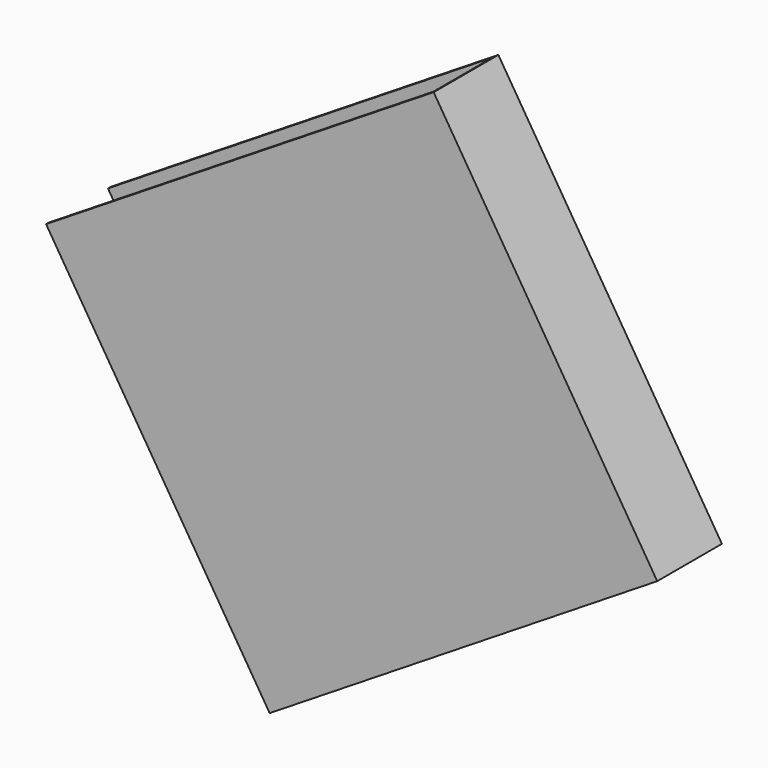
from build123d import *

# Parameters (mm, degrees)
BOX152_W               = 6
BOX152_H               = 6.45
BOX152_DEPTH           = 1.05
BOX151_W               = 6
BOX151_H               = 6.5
BOX151_DEPTH           = 1.15
CUT071_ROLL_ANGLE      = 90
CUT071_PITCH_ANGLE     = -58
CUT071_PLACEMENT_ANGLE = 180


with BuildPart() as small_cu_gnd_electrode062:
    # Box152 → Box152 (new body)
    with BuildSketch(Plane.XY.offset(0.05)):
        with Locations((3, 3.225)):
            Rectangle(BOX152_W, BOX152_H)
    extrude(amount=BOX152_DEPTH)


with BuildPart() as small_cu_electrode002_short_axis_gnd006:
    # Box151 → Box151 (new body)
    with BuildSketch(Plane.XY):
        with Locations((3, 3.25)):
            Rectangle(BOX151_W, BOX151_H)
    extrude(amount=BOX151_DEPTH)

    # Cut071: cut Small Cu GND Electrode062
    add(small_cu_gnd_electrode062.part, mode=Mode.SUBTRACT)


with BuildPart() as small_cu_electrode002_short_axis_gnd006_1:
    # Cut071 roll: moved
    add(small_cu_electrode002_short_axis_gnd006.part.rotate(Axis((0, 0, 0), (1, 0, 0)), CUT071_ROLL_ANGLE))


with BuildPart() as small_cu_electrode002_short_axis_gnd006_2:
    # Cut071 pitch: moved
    add(small_cu_electrode002_short_axis_gnd006_1.part.rotate(Axis((0, 0, 0), (0, 1, 0)), CUT071_PITCH_ANGLE))


with BuildPart() as small_cu_electrode002_short_axis_gnd006_3:
    # Cut071 placement: moved
    add(small_cu_electrode002_short_axis_gnd006_2.part.moved(Location((-6.250047, 2.74, 31.868858))).rotate(Axis((-6.250047, 2.74, 31.868858), (0, 0, 1)), CUT071_PLACEMENT_ANGLE))


solid = small_cu_electrode002_short_axis_gnd006_3.part
